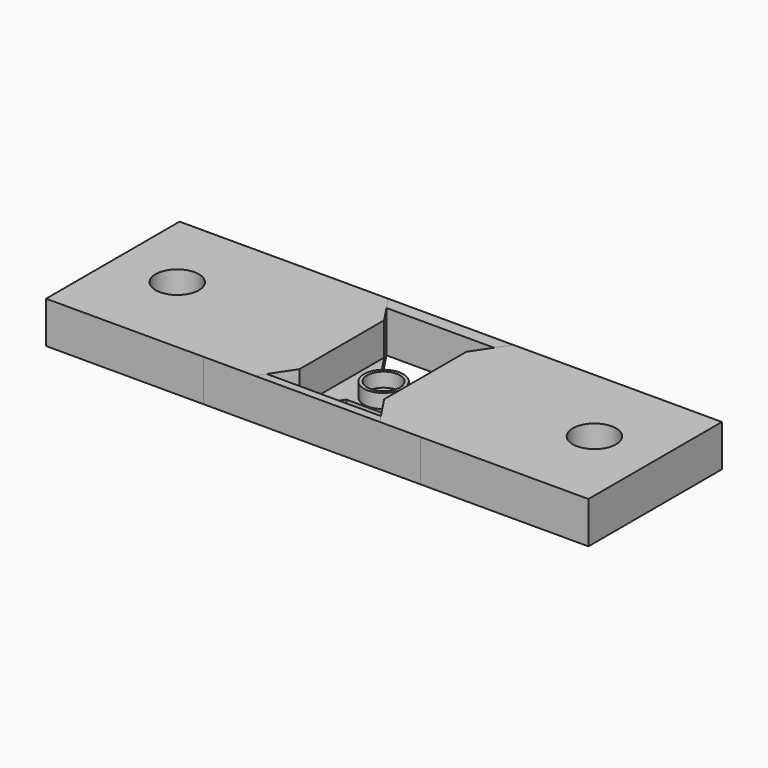
from build123d import *

# Parameters (mm, degrees)
BOX_W             = 33
BOX_H             = 2
BOX_DEPTH         = 6.35
BOX001_W          = 33
BOX001_H          = 1.25
BOX001_DEPTH      = 6.35
CYLINDER001_R     = 3.302
CYLINDER001_DEPTH = 10
BOX002_W          = 12.7
BOX002_H          = 16.7
BOX002_DEPTH      = 17
CYLINDER_R        = 3.302
CYLINDER_DEPTH    = 10
EXTRUDE_DEPTH     = 6.35
CYLINDER003_R     = 2.5
CYLINDER003_DEPTH = 16
CYLINDER002_R     = 3
CYLINDER002_DEPTH = 3.5


with BuildPart() as support1:
    # Box → Box (new body)
    with BuildSketch(Plane(origin=(24, -2.35, 0), x_dir=(1, 0, 0), z_dir=(0, 0, 1))):
        with Locations((16.5, 1)):
            Rectangle(BOX_W, BOX_H)
    extrude(amount=BOX_DEPTH)


with BuildPart() as support2:
    # Box001 → Box001 (new body)
    with BuildSketch(Plane(origin=(24, -25.753, 0), x_dir=(1, 0, 0), z_dir=(0, 0, 1))):
        with Locations((16.5, 0.625)):
            Rectangle(BOX001_W, BOX001_H)
    extrude(amount=BOX001_DEPTH)


with BuildPart() as hole2:
    # Cylinder001 → Cylinder001 (new body)
    with BuildSketch(Plane(origin=(73.025, -12.7, 0), x_dir=(1, 0, 0), z_dir=(0, 0, 1))):
        Circle(CYLINDER001_R)
    extrude(amount=CYLINDER001_DEPTH)


with BuildPart() as thinner:
    # Box002 → Box002 (new body)
    with BuildSketch(Plane(origin=(34.85, -21.35, 1.35), x_dir=(1, 0, 0), z_dir=(0, 0, 1))):
        with Locations((6.35, 8.35)):
            Rectangle(BOX002_W, BOX002_H)
    extrude(amount=BOX002_DEPTH)


with BuildPart() as fusion:
    # Cylinder → Cylinder (new body)
    with BuildSketch(Plane(origin=(9.525, -12.7, 0), x_dir=(1, 0, 0), z_dir=(0, 0, 1))):
        Circle(CYLINDER_R)
    extrude(amount=CYLINDER_DEPTH)

    # Fusion: union Hole2, Thinner
    add(hole2.part)
    add(thinner.part)


with BuildPart() as cut:
    with BuildSketch(Plane(origin=(41.275, -13.050916, 0), x_dir=(0, -1, 0), z_dir=(0, 0, -1))):
        with BuildLine():
            add(Edge.make_bspline(
                [(-12.7, 41.275), (-12.7, 9.525)],
                knots=[0, 0, 112.5, 112.5], degree=1))
            add(Edge.make_bspline(
                [(-12.7, 9.525), (-3.175, 3.175)],
                knots=[0, 0, 40.562452, 40.562452], degree=1))
            add(Edge.make_bspline(
                [(-3.175, 3.175), (-3.175, -3.175)],
                knots=[0, 0, 22.5, 22.5], degree=1))
            add(Edge.make_bspline(
                [(-3.175, -3.175), (-12.7, -9.525)],
                knots=[0, 0, 40.562452, 40.562452], degree=1))
            add(Edge.make_bspline(
                [(-12.7, -9.525), (-12.7, -41.275)],
                knots=[0, 0, 112.5, 112.5], degree=1))
            add(Edge.make_bspline(
                [(-12.7, -41.275), (12.7, -41.275)],
                knots=[0, 0, 90, 90], degree=1))
            add(Edge.make_bspline(
                [(12.7, -41.275), (12.7, -9.525)],
                knots=[0, 0, 112.5, 112.5], degree=1))
            add(Edge.make_bspline(
                [(12.7, -9.525), (3.175, -3.175)],
                knots=[0, 0, 40.562452, 40.562452], degree=1))
            add(Edge.make_bspline(
                [(3.175, -3.175), (3.175, 3.175)],
                knots=[0, 0, 22.5, 22.5], degree=1))
            add(Edge.make_bspline(
                [(3.175, 3.175), (12.7, 9.525)],
                knots=[0, 0, 40.562452, 40.562452], degree=1))
            add(Edge.make_bspline(
                [(12.7, 9.525), (12.7, 41.275)],
                knots=[0, 0, 112.5, 112.5], degree=1))
            add(Edge.make_bspline(
                [(12.7, 41.275), (-12.7, 41.275)],
                knots=[0, 0, 90, 90], degree=1))
        make_face()
    extrude(amount=-EXTRUDE_DEPTH)

    # Cut: cut Fusion
    add(fusion.part, mode=Mode.SUBTRACT)


with BuildPart() as cylinder001:
    # Cylinder003 → Cylinder003 (new body)
    with BuildSketch(Plane(origin=(41.2, -13.04, 0), x_dir=(1, 0, 0), z_dir=(0, 0, 1))):
        Circle(CYLINDER003_R)
    extrude(amount=CYLINDER003_DEPTH)


with BuildPart() as cut001:
    # Cylinder002 → Cylinder002 (new body)
    with BuildSketch(Plane(origin=(41.2, -13.04, 0), x_dir=(1, 0, 0), z_dir=(0, 0, 1))):
        Circle(CYLINDER002_R)
    extrude(amount=CYLINDER002_DEPTH)

    # Cut001: cut Cylinder001
    add(cylinder001.part, mode=Mode.SUBTRACT)


solid = Compound([support1.part, support2.part, cut.part, cut001.part])
